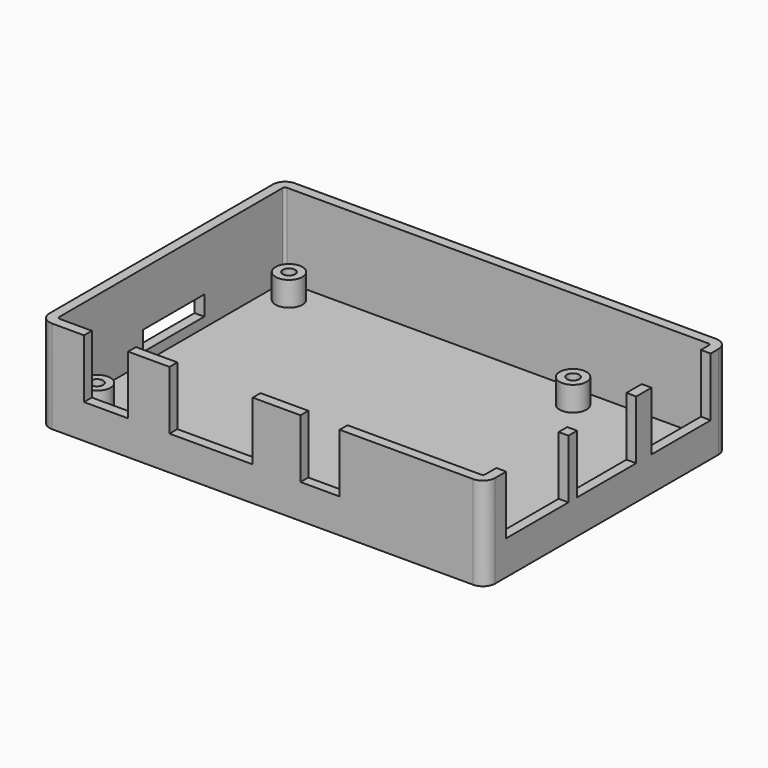
from build123d import *

# Parameters (mm, degrees)
F1_DEPTH = 2
F2_DEPTH = 19
F3_R     = 2.75
F3_R_2   = 1.25
F4_DEPTH = 5
F5_W     = 9
F5_H     = 2
F5_W_2   = 17
F5_W_3   = 8
F5_W_4   = 2
F5_H_2   = 15.9
F5_H_3   = 15.1
F6_DEPTH = 12
F7_W     = 15.6
F7_H     = 4
F8_DEPTH = 2


with BuildPart() as f1:
    # F0 (on Top) → F1 (new body)
    with BuildSketch(Plane.XY):
        with BuildLine():
            ThreePointArc((45.5, 28.5), (44.767767, 30.267767), (43, 31))
            Line((43, 31), (-43, 31))
            ThreePointArc((-43, 31), (-44.767767, 30.267767), (-45.5, 28.5))
            Line((-45.5, 28.5), (-45.5, -28.5))
            ThreePointArc((-45.5, -28.5), (-44.767767, -30.267767), (-43, -31))
            Line((-43, -31), (43, -31))
            ThreePointArc((43, -31), (44.767767, -30.267767), (45.5, -28.5))
            Line((45.5, -28.5), (45.5, 28.5))
        make_face()
        with BuildLine():
            ThreePointArc((43, 29), (43.353553, 28.853553), (43.5, 28.5))
            Line((43.5, 28.5), (43.5, -28.5))
            ThreePointArc((43.5, -28.5), (43.353553, -28.853553), (43, -29))
            Line((43, -29), (-43, -29))
            ThreePointArc((-43, -29), (-43.353553, -28.853553), (-43.5, -28.5))
            Line((-43.5, -28.5), (-43.5, 28.5))
            ThreePointArc((-43.5, 28.5), (-43.353553, 28.853553), (-43, 29))
            Line((-43, 29), (43, 29))
        make_face(mode=Mode.SUBTRACT)
        with BuildLine():
            Line((43.5, -28.5), (43.5, 28.5))
            ThreePointArc((43.5, 28.5), (43.353553, 28.853553), (43, 29))
            Line((43, 29), (-43, 29))
            ThreePointArc((-43, 29), (-43.353553, 28.853553), (-43.5, 28.5))
            Line((-43.5, 28.5), (-43.5, -28.5))
            ThreePointArc((-43.5, -28.5), (-43.353553, -28.853553), (-43, -29))
            Line((-43, -29), (43, -29))
            ThreePointArc((43, -29), (43.353553, -28.853553), (43.5, -28.5))
        make_face()
    extrude(amount=F1_DEPTH)

    # F0 (on Top) → F2 (join)
    with BuildSketch(Plane.XY):
        with BuildLine():
            ThreePointArc((45.5, 28.5), (44.767767, 30.267767), (43, 31))
            Line((43, 31), (-43, 31))
            ThreePointArc((-43, 31), (-44.767767, 30.267767), (-45.5, 28.5))
            Line((-45.5, 28.5), (-45.5, -28.5))
            ThreePointArc((-45.5, -28.5), (-44.767767, -30.267767), (-43, -31))
            Line((-43, -31), (43, -31))
            ThreePointArc((43, -31), (44.767767, -30.267767), (45.5, -28.5))
            Line((45.5, -28.5), (45.5, 28.5))
        make_face()
        with BuildLine():
            ThreePointArc((43, 29), (43.353553, 28.853553), (43.5, 28.5))
            Line((43.5, 28.5), (43.5, -28.5))
            ThreePointArc((43.5, -28.5), (43.353553, -28.853553), (43, -29))
            Line((43, -29), (-43, -29))
            ThreePointArc((-43, -29), (-43.353553, -28.853553), (-43.5, -28.5))
            Line((-43.5, -28.5), (-43.5, 28.5))
            ThreePointArc((-43.5, 28.5), (-43.353553, 28.853553), (-43, 29))
            Line((-43, 29), (43, 29))
        make_face(mode=Mode.SUBTRACT)
    extrude(amount=F2_DEPTH)

    # F3 (on face) → F4 (join)
    with BuildSketch(Plane.XY.offset(2)):
        with Locations((-39, 24.5)):
            Circle(F3_R)
        with Locations((-39, 24.5)):
            Circle(F3_R_2, mode=Mode.SUBTRACT)
        with Locations((19, 24.5)):
            Circle(F3_R)
        with Locations((19, 24.5)):
            Circle(F3_R_2, mode=Mode.SUBTRACT)
        with Locations((-39, -24.5)):
            Circle(F3_R)
        with Locations((-39, -24.5)):
            Circle(F3_R_2, mode=Mode.SUBTRACT)
        with Locations((19, -24.5)):
            Circle(F3_R)
        with Locations((19, -24.5)):
            Circle(F3_R_2, mode=Mode.SUBTRACT)
    extrude(amount=F4_DEPTH)

    # F5 (on face) → F6 (cut)
    with BuildSketch(Plane.XY.offset(19)):
        with Locations((-31.95, -30)):
            Rectangle(F5_W, F5_H)
        with Locations((-10.5, -30)):
            Rectangle(F5_W_2, F5_H)
        with Locations((11.75, -30)):
            Rectangle(F5_W_3, F5_H)
        with Locations((44.5, -17.75)):
            Rectangle(F5_W_4, F5_H_2)
        with Locations((44.5, -0.05)):
            Rectangle(F5_W_4, F5_H_3)
        with Locations((44.5, 18.95)):
            Rectangle(F5_W_4, F5_H_3)
    extrude(amount=-F6_DEPTH, mode=Mode.SUBTRACT)

    # F7 (on face) → F8 (cut, through all)
    with BuildSketch(Plane(origin=(-45.5, 0, 0), x_dir=(0, -1, 0), z_dir=(-1, 0, 0))):
        with Locations((-0.7, 6)):
            Rectangle(F7_W, F7_H)
    extrude(amount=-F8_DEPTH, mode=Mode.SUBTRACT)


solid = f1.part
